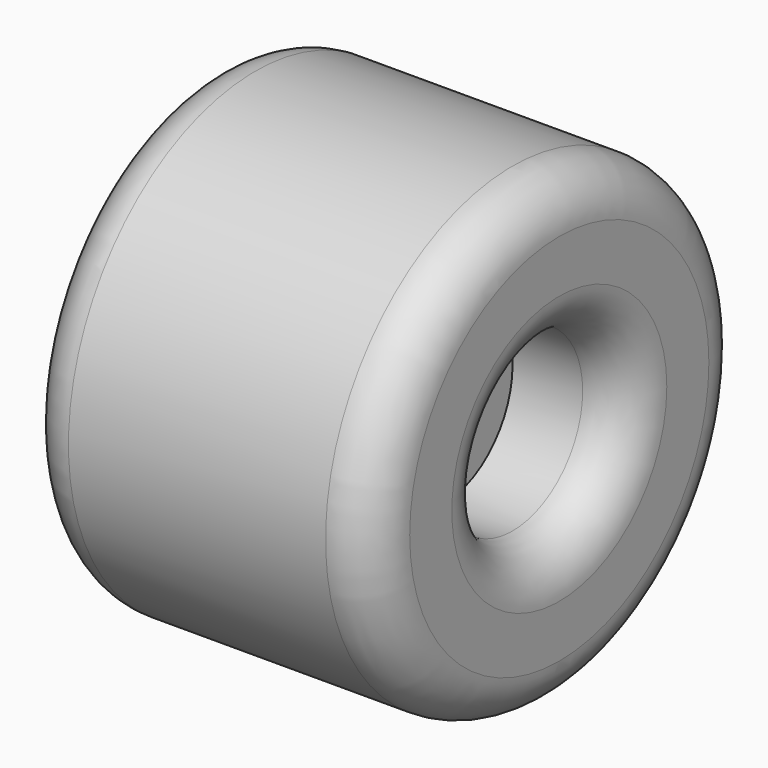
from build123d import *

# Parameters (mm, degrees)
F0_R      = 6.35
F1_DEPTH  = 25.4
F2_R      = 25.4
F3_DEPTH  = 38.1
F4_R      = 9.525
F5_DEPTH  = 12.7
F6_R      = 5.08
F7_W      = 38.8537757099
F7_H      = 29.6439938247
F8_DEPTH  = 25.4
F9_DEPTH  = 25.4
F10_DEPTH = 25.4
F11_DEPTH = 56.134


with BuildPart() as f1:
    # F0 (on Right) → F1 (new body)
    with BuildSketch(Plane.YZ):
        Circle(F0_R)
    extrude(amount=F1_DEPTH)

    # F2 (on face) → F3 (join)
    with BuildSketch(Plane.YZ.offset(25.4)):
        Circle(F2_R)
    extrude(amount=F3_DEPTH)

    # F4 (on face) → F5 (cut)
    with BuildSketch(Plane.YZ.offset(63.5)):
        Circle(F4_R)
    extrude(amount=-F5_DEPTH, mode=Mode.SUBTRACT)

    # F6
    f6_edges = [f1.edges().sort_by_distance(p)[0] for p in [
        (63.5, -25.4, 0),
        (63.5, -9.525, 0),
        (25.4, -25.4, 0),
    ]]
    fillet(f6_edges, radius=F6_R)

    # F7 (on Front) → F8 (join)
    with BuildSketch(Plane.XZ):
        with Locations((5.6122131646, 4.7487951815)):
            Rectangle(F7_W, F7_H)
    extrude(amount=F8_DEPTH)

    # F9 (add): a face of the model
    f9_faces = [f1.faces().sort_by_distance(p)[0] for p in [
        (2.9778278266, 0, 6.5599353899),
    ]]
    extrude(f9_faces, amount=F9_DEPTH)

    # F10 (cut): a face of the model
    f10_faces = [f1.faces().sort_by_distance(p)[0] for p in [
        (2.9778278266, 25.4, 6.5599353899),
    ]]
    extrude(f10_faces, amount=-F10_DEPTH, mode=Mode.SUBTRACT)

    # F11 (cut): a face of the model
    f11_faces = [f1.faces().sort_by_distance(p)[0] for p in [
        (5.6122131646, -25.4, 4.7487951815),
    ]]
    extrude(f11_faces, amount=-F11_DEPTH, mode=Mode.SUBTRACT)


solid = f1.part
